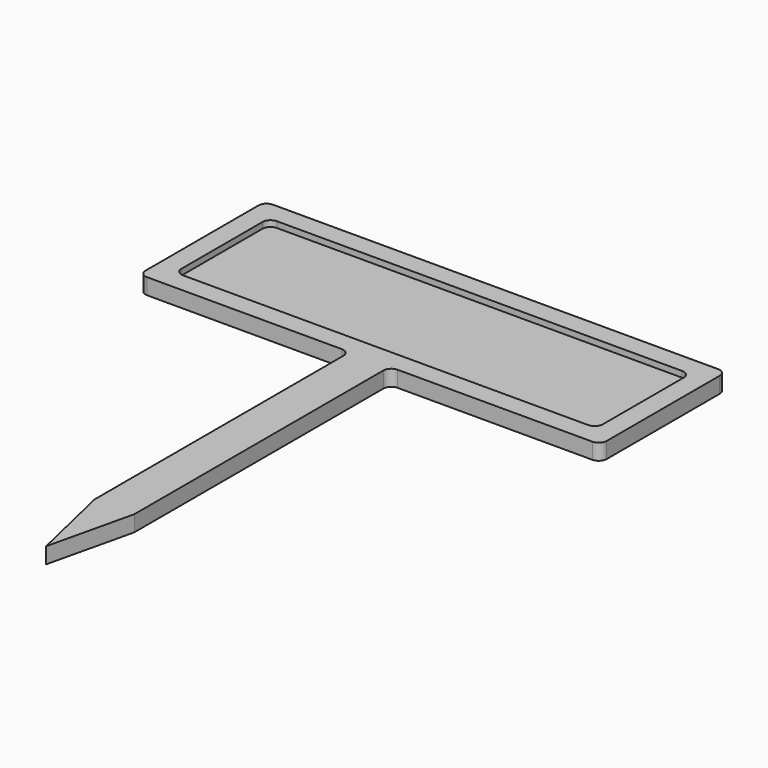
from build123d import *

# Parameters (mm, degrees)
F0_W     = 105.6
F0_H     = 29.4
F0_W_2   = 10
F0_H_2   = 80
F1_DEPTH = 4
F2_W     = 105.6
F2_H     = 29.4
F3_DEPTH = 1.5
F4_R     = 2


with BuildPart() as f1:
    # F0 (on Top) → F1 (new body)
    with BuildSketch(Plane.XY):
        Polygon((57.8, 19.7), (-57.8, 19.7), (-57.8, -19.7), (-5, -19.7), (5, -19.7), (57.8, -19.7), align=None)
        Rectangle(F0_W, F0_H, mode=Mode.SUBTRACT)
        Rectangle(F0_W, F0_H)
        with Locations((0, -59.7)):
            Rectangle(F0_W_2, F0_H_2)
        Polygon((5, -99.7), (-5, -99.7), (0, -121.124285), align=None)
    extrude(amount=F1_DEPTH)

    # F2 (on face) → F3 (cut)
    with BuildSketch(Plane.XY.offset(4)):
        Rectangle(F2_W, F2_H)
    extrude(amount=-F3_DEPTH, mode=Mode.SUBTRACT)

    # F4
    f4_edges = [f1.edges().sort_by_distance(p)[0] for p in [
        (-57.8, 19.7, 2),
        (-57.8, -19.7, 2),
        (57.8, -19.7, 2),
        (57.8, 19.7, 2),
        (52.8, 14.7, 3.25),
        (-52.8, 14.7, 3.25),
        (-52.8, -14.7, 3.25),
        (52.8, -14.7, 3.25),
        (5, -19.7, 2),
        (-5, -19.7, 2),
    ]]
    fillet(f4_edges, radius=F4_R)


solid = f1.part
